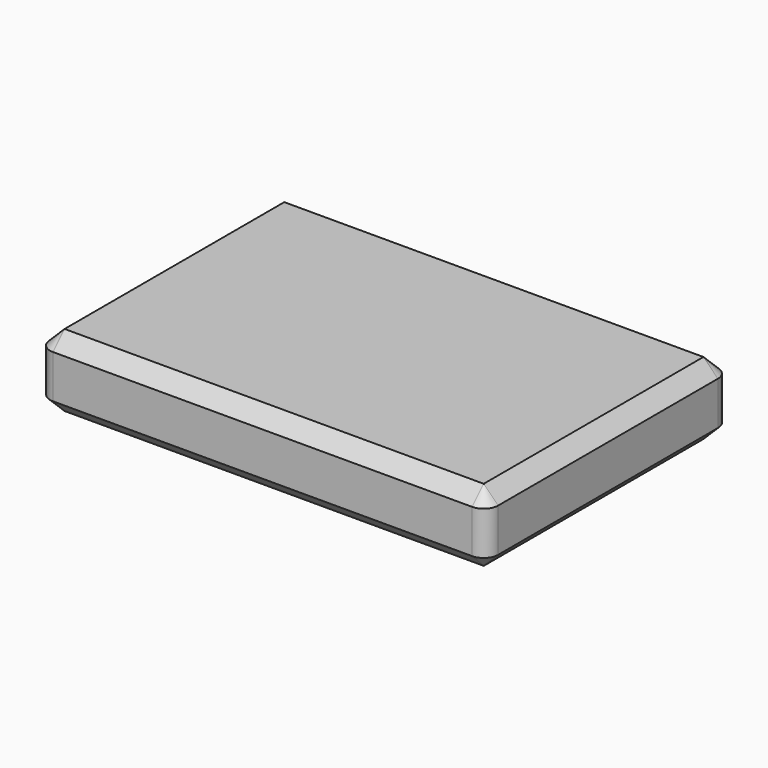
from build123d import *

# Parameters (mm, degrees)
F0_W     = 155
F0_H     = 105
F1_DEPTH = 25
F2_R     = 5
F3_SIZE  = 5


with BuildPart() as f1:
    # F0 (on Top) → F1 (new body)
    with BuildSketch(Plane.XY):
        Rectangle(F0_W, F0_H)
    extrude(amount=F1_DEPTH)

    # F2
    f2_edges = [f1.edges().sort_by_distance(p)[0] for p in [
        (-77.5, -52.5, 12.5),
        (-77.5, 52.5, 12.5),
        (77.5, -52.5, 12.5),
        (77.5, 52.5, 12.5),
    ]]
    fillet(f2_edges, radius=F2_R)

    # F3
    f3_edges = [f1.edges().sort_by_distance(p)[0] for p in [
        (0, 52.5, 25),
        (0, -52.5, 0),
    ]]
    chamfer(f3_edges, length=F3_SIZE)


solid = f1.part
